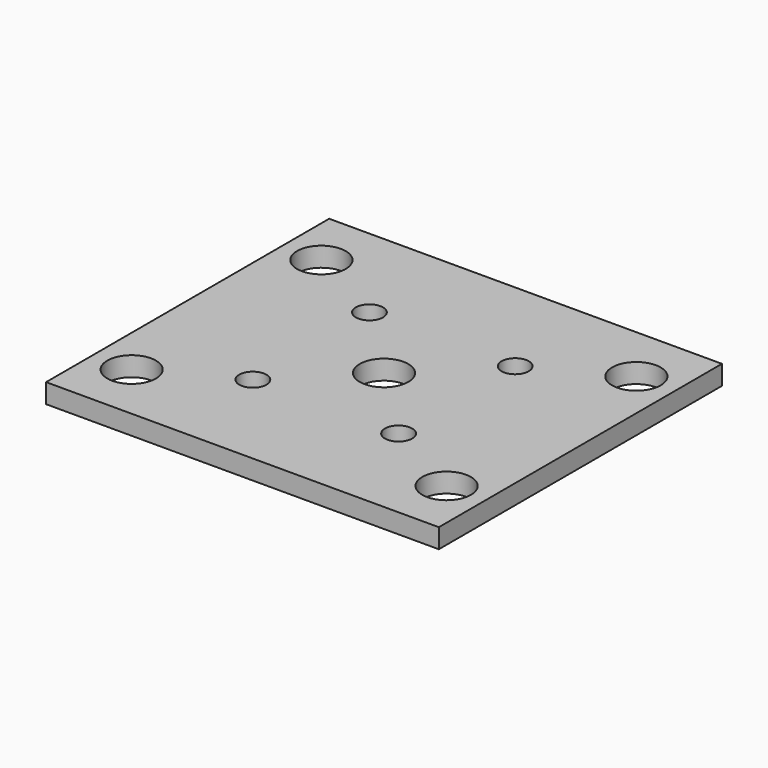
from build123d import *

# Parameters (mm, degrees)
F0_W     = 101
F0_H     = 91
F1_DEPTH = 5
F3_D     = 12.5
F5_D     = 7


with BuildPart() as f1:
    # F0 (on Top) → F1 (new body)
    with BuildSketch(Plane.XY):
        with Locations((0, -45.5)):
            Rectangle(F0_W, F0_H)
    extrude(amount=-F1_DEPTH)

    # F3 (through all)
    with Locations(Plane.XY):
        with Locations((-40.5, -76), (40.5, -76), (40.5, -15), (-40.5, -15), (0, -45.5)):
            Hole(F3_D / 2)

    # F5 (through all)
    with Locations(Plane(origin=(0, 0, -5), x_dir=(1, 0, 0), z_dir=(0, 0, -1))):
        with Locations((-18.73833, 64.23833), (-18.73833, 26.76167), (18.73833, 26.76167), (18.73833, 64.23833)):
            Hole(F5_D / 2)


solid = f1.part
